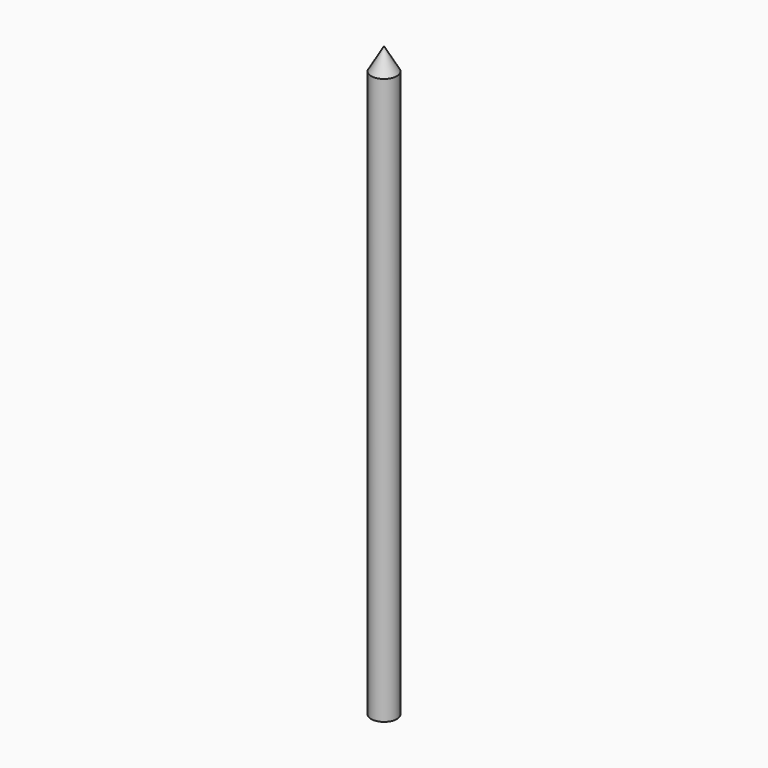
from build123d import *

# Parameters (mm, degrees)
F0_W = 3.175
F0_H = 139.7


with BuildPart() as f1:
    # F0 (on Front) → F1 (revolve)
    with BuildSketch(Plane.XZ):
        Polygon((26.633182, 97.618053), (26.633182, 92.118792), (29.808182, 92.118792), align=None)
        with Locations((28.220682, 22.268792)):
            Rectangle(F0_W, F0_H)
    revolve(axis=Axis((26.633182, 0, 25.018422), (0, 0, -1)))


solid = f1.part
